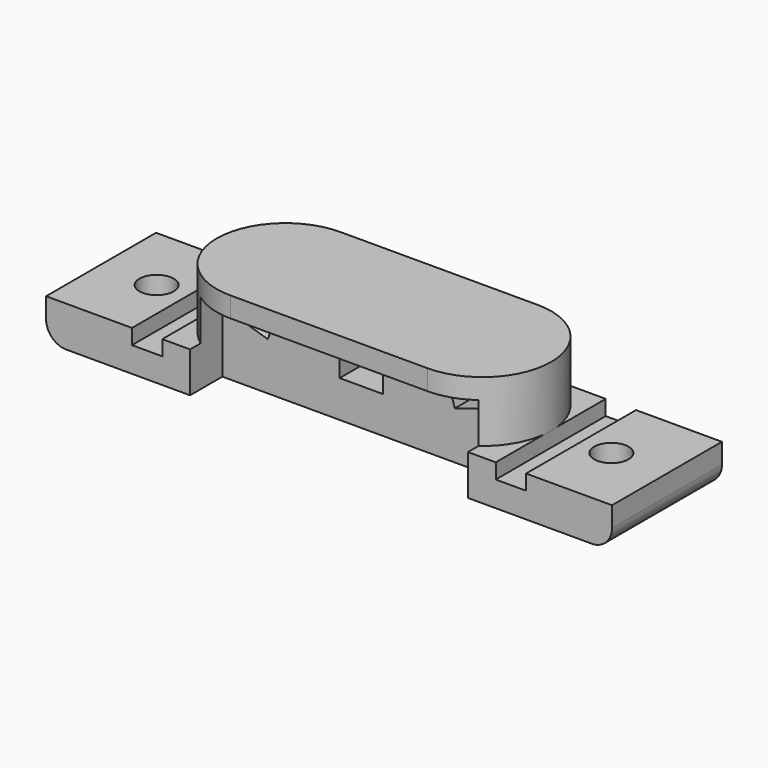
from build123d import *

# Parameters (mm, degrees)
SKETCH_W        = 56
SKETCH_H        = 13.6
SKETCH_R        = 1.7
PAD_DEPTH       = 4
PAD001_DEPTH    = 6
SKETCH002_W     = 4.3
SKETCH002_H     = 1.7
POCKET_DEPTH    = 10
SKETCH003_W     = 27.5
SKETCH003_H     = 8.7
POCKET001_DEPTH = 4
SKETCH004_W     = 3
SKETCH004_H     = 1.5
POCKET002_DEPTH = 130.578947
CHAMFER_SIZE    = 1.7
CHAMFER001_SIZE = 1.7
FILLET_R        = 2
FILLET001_R     = 2


with BuildPart() as part:
    # Sketch → Pad (new body)
    with BuildSketch(Plane.XY):
        Rectangle(SKETCH_W, SKETCH_H)
        with Locations((-22.5, 0)):
            Circle(SKETCH_R, mode=Mode.SUBTRACT)
        with Locations((22.5, 0)):
            Circle(SKETCH_R, mode=Mode.SUBTRACT)
    extrude(amount=-PAD_DEPTH)

    # Sketch001 → Pad001 (new body)
    with BuildSketch(Plane.XY):
        with BuildLine():
            ThreePointArc((-9.75, 6.8), (-16.55, 0), (-9.75, -6.8))
            Line((-9.75, -6.8), (9.75, -6.8))
            ThreePointArc((9.75, -6.8), (16.55, 0), (9.75, 6.8))
            Line((-9.75, 6.8), (9.75, 6.8))
        make_face()
    extrude(amount=PAD001_DEPTH)

    # Sketch002 → Pocket (cut)
    with BuildSketch(Plane.XZ.offset(6.8)):
        Polygon((-12.857344, 3.612012), (-8.748385, 2.344555), (-9.249472, 0.720082), (-13.358432, 1.98754), align=None)
        with Locations((0, 0.5)):
            Rectangle(SKETCH002_W, SKETCH002_H)
        Polygon((8.748385, 2.344555), (12.857344, 3.612012), (13.358432, 1.98754), (9.249472, 0.720082), align=None)
    extrude(amount=-POCKET_DEPTH, mode=Mode.SUBTRACT)

    # Sketch003 → Pocket001 (cut)
    with BuildSketch(Plane.XZ.offset(6.8)):
        with Locations((0, -0.35)):
            Rectangle(SKETCH003_W, SKETCH003_H)
    extrude(amount=-POCKET001_DEPTH, mode=Mode.SUBTRACT)

    # Sketch004 → Pocket002 (cut, through all)
    with BuildSketch(Plane.XZ.offset(6.8)):
        with Locations((-18, -0.75)):
            Rectangle(SKETCH004_W, SKETCH004_H)
    pocket002 = extrude(amount=-POCKET002_DEPTH, mode=Mode.SUBTRACT)

    # Mirrored: Pocket002 across Sketch004 V_Axis
    add(pocket002.mirror(Plane(origin=(0, -6.8, 0), x_dir=(0, -1, 0), z_dir=(1, 0, 0))), mode=Mode.SUBTRACT)

    # Chamfer
    chamfer_edges = [part.edges().sort_by_distance(p)[0] for p in [
        (-24.2, 0, -4),
    ]]
    chamfer(chamfer_edges, length=CHAMFER_SIZE)

    # Chamfer001
    chamfer001_edges = [part.edges().sort_by_distance(p)[0] for p in [
        (20.8, 0, -4),
    ]]
    chamfer(chamfer001_edges, length=CHAMFER001_SIZE)

    # Fillet
    fillet_edges = [part.edges().sort_by_distance(p)[0] for p in [
        (-28, 0, -4),
    ]]
    fillet(fillet_edges, radius=FILLET_R)

    # Fillet001
    fillet001_edges = [part.edges().sort_by_distance(p)[0] for p in [
        (28, 0, -4),
    ]]
    fillet(fillet001_edges, radius=FILLET001_R)


solid = part.part
